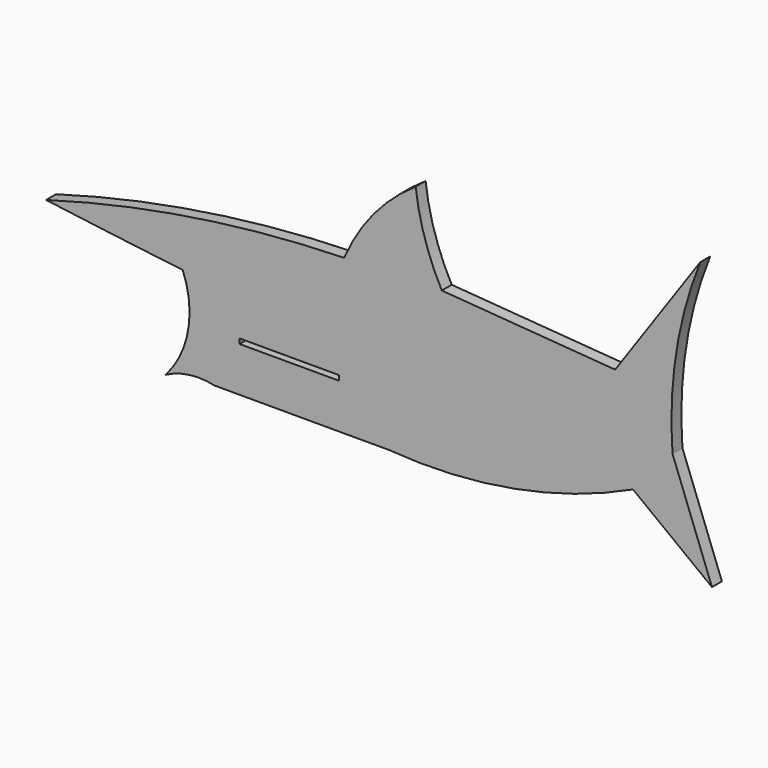
from build123d import *

# Parameters (mm, degrees)
F0_W     = 40
F0_H     = 2
F1_DEPTH = 5


with BuildPart() as f1:
    # F0 (on Front) → F1 (new body)
    with BuildSketch(Plane.XZ):
        with BuildLine():
            Line((64.111737, 27.99553), (-5.684315, 33.335119))
            ThreePointArc((-5.684315, 33.335119), (-12.51556, 49.531418), (-16.191208, 66.720822))
            ThreePointArc((-16.191208, 66.720822), (-33.109228, 51.528336), (-44.980059, 32.134667))
            ThreePointArc((-44.980059, 32.134667), (-105.571318, 26.711963), (-164.980059, 13.6235))
            ThreePointArc((-164.980059, 13.6235), (-137.491015, 10.068821), (-109.980059, 6.687917))
            ThreePointArc((-109.980059, 6.687917), (-107.784091, -14.004458), (-116.903277, -32.70839))
            ThreePointArc((-116.903277, -32.70839), (-107.223293, -29.61905), (-97.073786, -30.102378))
            Line((-97.073786, -30.102378), (-27.073786, -30.102378))
            ThreePointArc((-27.073786, -30.102378), (23.272059, -27.46882), (71.299644, -12.139407))
            Line((71.299644, -12.139407), (103.101424, -36.401451))
            Line((103.101424, -36.401451), (87.200534, 5.6956))
            ThreePointArc((87.200534, 5.6956), (88.69059, 42.109352), (98.391595, 77.238715))
            Line((98.391595, 77.238715), (64.111737, 27.99553))
        make_face()
        with Locations((-67.080881, -11.102378)):
            Rectangle(F0_W, F0_H, mode=Mode.SUBTRACT)
    extrude(amount=F1_DEPTH)


solid = f1.part
